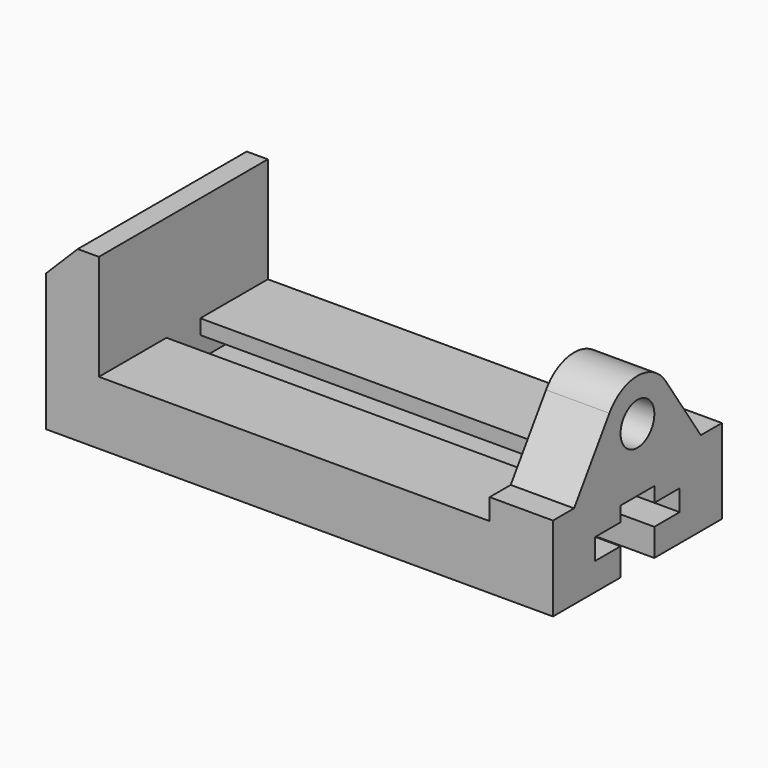
from build123d import *

# Parameters (mm, degrees)
F0_R     = 12.7
F1_DEPTH = 38.1
F3_DEPTH = 127
F5_DEPTH = 273.05


with BuildPart() as f1:
    # F0 (on Right) → F1 (new body)
    with BuildSketch(Plane.YZ):
        with BuildLine():
            Line((0, 50.8), (0, 0))
            Line((0, 0), (127, 0))
            Line((127, 0), (127, 50.8))
            Line((127, 50.8), (111.125, 50.8))
            Line((111.125, 50.8), (84.593426, 90.350173))
            ThreePointArc((84.593426, 90.350173), (63.5, 101.6), (42.406574, 90.350173))
            Line((42.406574, 90.350173), (15.875, 50.8))
            Line((15.875, 50.8), (0, 50.8))
        make_face()
        with Locations((63.5, 76.2)):
            Circle(F0_R, mode=Mode.SUBTRACT)
    extrude(amount=F1_DEPTH)

    # F2 (on Front) → F3 (join)
    with BuildSketch(Plane.XZ):
        Polygon((-266.7, 0), (0, 0), (0, 38.1), (-234.95, 38.1), (-234.95, 101.6), (-247.65, 101.6), (-266.7, 82.55), (-266.7, 38.1), align=None)
    extrude(amount=-F3_DEPTH)

    # F4 (on face) → F5 (cut)
    with BuildSketch(Plane.YZ.offset(38.1)):
        Polygon((50.8, 16.51), (50.8, 0), (76.2, 0), (76.2, 16.51), (95.25, 16.51), (95.25, 29.21), (76.2, 29.21), (76.2, 38.1), (50.8, 38.1), (50.8, 29.21), (31.75, 29.21), (31.75, 16.51), align=None)
    extrude(amount=-F5_DEPTH, mode=Mode.SUBTRACT)


solid = f1.part
